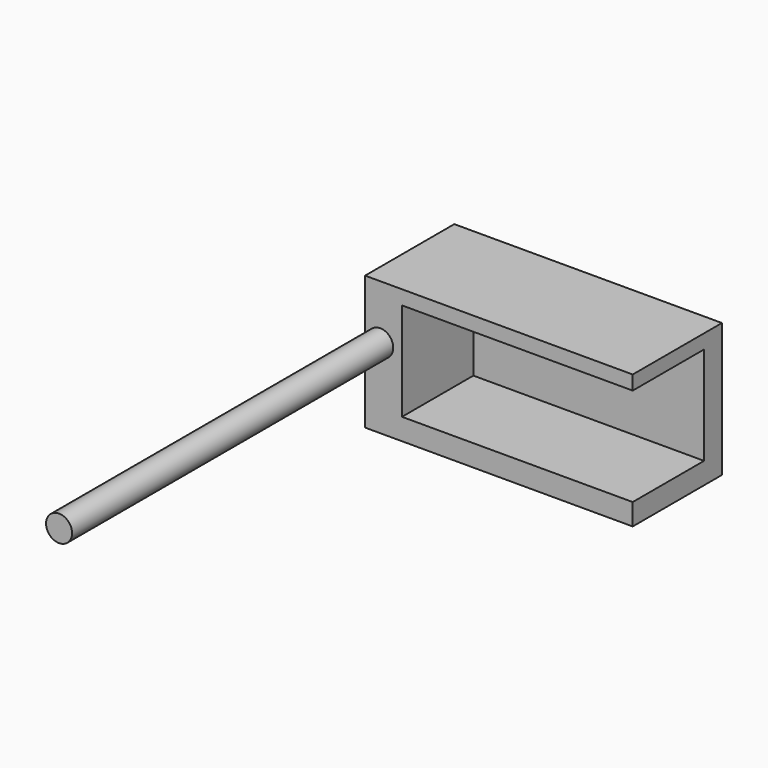
from build123d import *

# Parameters (mm, degrees)
F0_W     = 304.8
F0_H     = 152.4
F1_DEPTH = 127
F2_W     = 262.756182
F2_H     = 111.728583
F3_DEPTH = 101.6
F4_R     = 14.821854
F5_DEPTH = 457.2


with BuildPart() as f1:
    # F0 (on Front) → F1 (new body)
    with BuildSketch(Plane.XZ):
        Rectangle(F0_W, F0_H)
    extrude(amount=F1_DEPTH)

    # F2 (on face) → F3 (cut, symmetric)
    with BuildSketch(Plane.XZ.offset(127)):
        with Locations((21.021909, 4.163234)):
            Rectangle(F2_W, F2_H)
    extrude(amount=F3_DEPTH, both=True, mode=Mode.SUBTRACT)

    # F4 (on face) → F5 (join)
    with BuildSketch(Plane.XZ.offset(127)):
        with Locations((-135.146677, 14.277183)):
            Circle(F4_R)
    extrude(amount=F5_DEPTH)


solid = f1.part
